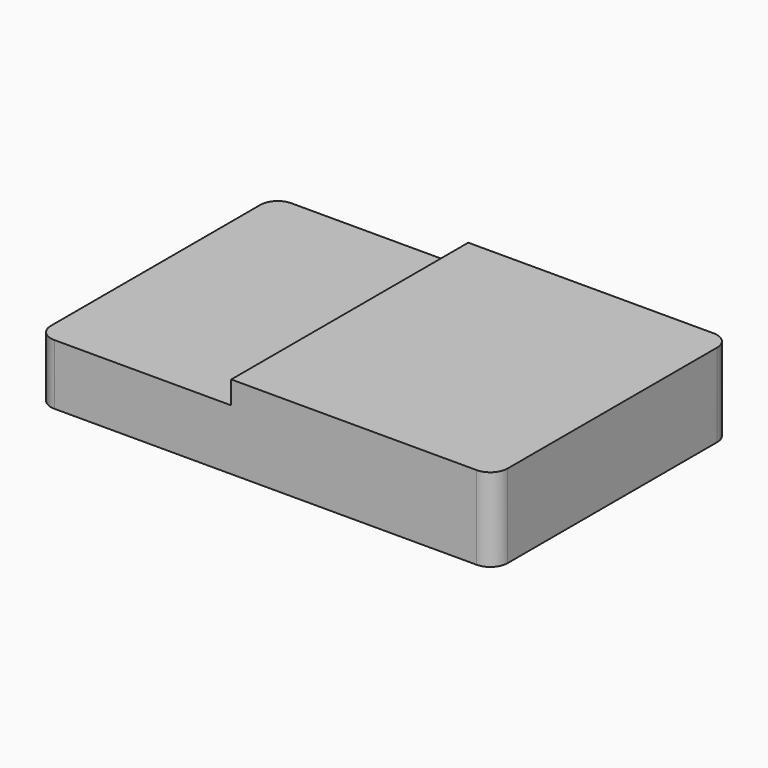
from build123d import *

# Parameters (mm, degrees)
F0_W     = 40
F0_H     = 25.95
F1_DEPTH = 5.3
F2_W     = 23
F2_H     = 25.95
F3_DEPTH = 2
F4_R     = 1.5


with BuildPart() as f1:
    # F0 (on Top) → F1 (new body)
    with BuildSketch(Plane.XY):
        with Locations((-40.170929, 36.161726)):
            Rectangle(F0_W, F0_H)
    extrude(amount=F1_DEPTH)

    # F2 (on face) → F3 (join)
    with BuildSketch(Plane.XY.offset(5.3)):
        with Locations((-31.670929, 36.161726)):
            Rectangle(F2_W, F2_H)
    extrude(amount=F3_DEPTH)

    # F4
    f4_edges = [f1.edges().sort_by_distance(p)[0] for p in [
        (-20.170929, 23.186726, 3.65),
        (-20.170929, 49.136726, 3.65),
        (-60.170929, 23.186726, 2.65),
        (-60.170929, 49.136726, 2.65),
    ]]
    fillet(f4_edges, radius=F4_R)


solid = f1.part
